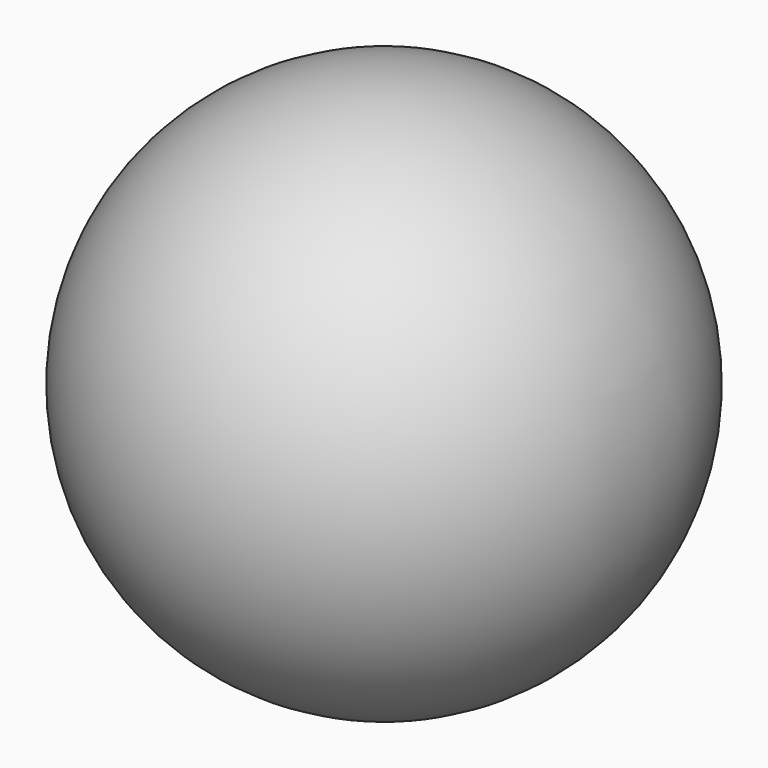
from build123d import *


with BuildPart() as part:
    # Sphere → Sphere (revolve)
    with BuildSketch(Plane.XZ):
        with BuildLine():
            ThreePointArc((0, -10), (10, 0), (0, 10))
            Line((0, 10), (0, -10))
        make_face()
    revolve(axis=Axis((0, 0, 0), (0, 0, 1)))


solid = part.part
